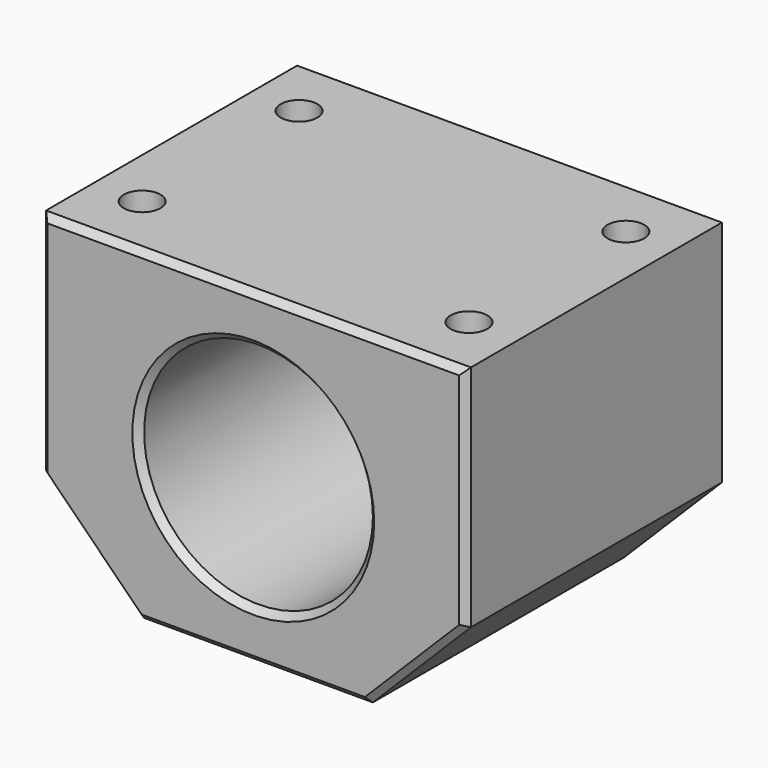
from build123d import *

# Parameters (mm, degrees)
F0_W     = 52
F0_H     = 40
F1_DEPTH = 40
F2_R     = 14
F3_DEPTH = 40.001
F4_R     = 2.25
F5_DEPTH = 17
F6_R     = 2.15
F7_DEPTH = 16
F8_SIZE  = 12
F9_SIZE  = 0.8


with BuildPart() as f1:
    # F0 (on Top) → F1 (new body)
    with BuildSketch(Plane.XY):
        Rectangle(F0_W, F0_H)
    extrude(amount=F1_DEPTH)

    # F2 (on face) → F3 (cut, through all)
    with BuildSketch(Plane.XZ.offset(20)):
        with Locations((0, 20)):
            Circle(F2_R)
    extrude(amount=-F3_DEPTH, mode=Mode.SUBTRACT)

    # F4 (on face) → F5 (cut)
    with BuildSketch(Plane.XY.offset(40)):
        with Locations((-20, 12)):
            Circle(F4_R)
        with Locations((-20, -12)):
            Circle(F4_R)
        with Locations((20, -12)):
            Circle(F4_R)
        with Locations((20, 12)):
            Circle(F4_R)
    extrude(amount=-F5_DEPTH, mode=Mode.SUBTRACT)

    # F6 (on face) → F7 (cut)
    with BuildSketch(Plane(origin=(0, 20, 0), x_dir=(-1, 0, 0), z_dir=(0, 1, 0))):
        with Locations((13.4350288425, 33.4350288425)):
            Circle(F6_R)
        with Locations((19, 20)):
            Circle(F6_R)
        with Locations((-13.4350288425, 33.4350288425)):
            Circle(F6_R)
        with Locations((-19, 20)):
            Circle(F6_R)
        with Locations((13.4350288425, 6.5649711575)):
            Circle(F6_R)
        with Locations((-13.4350288425, 6.5649711575)):
            Circle(F6_R)
    extrude(amount=-F7_DEPTH, mode=Mode.SUBTRACT)

    # F8
    f8_edges = [f1.edges().sort_by_distance(p)[0] for p in [
        (-26, 0, 0),
        (26, 0, 0),
    ]]
    chamfer(f8_edges, length=F8_SIZE)

    # F9
    f9_edges = [f1.edges().sort_by_distance(p)[0] for p in [
        (-26, 20, 26),
        (-20, 20, 6),
        (0, 20, 0),
        (20, 20, 6),
        (26, 20, 26),
        (0, 20, 40),
        (-26, -20, 26),
        (-20, -20, 6),
        (0, -20, 40),
        (0, -20, 0),
        (26, -20, 26),
        (20, -20, 6),
        (-14, -20, 20),
        (-14, 20, 20),
    ]]
    chamfer(f9_edges, length=F9_SIZE)


solid = f1.part
